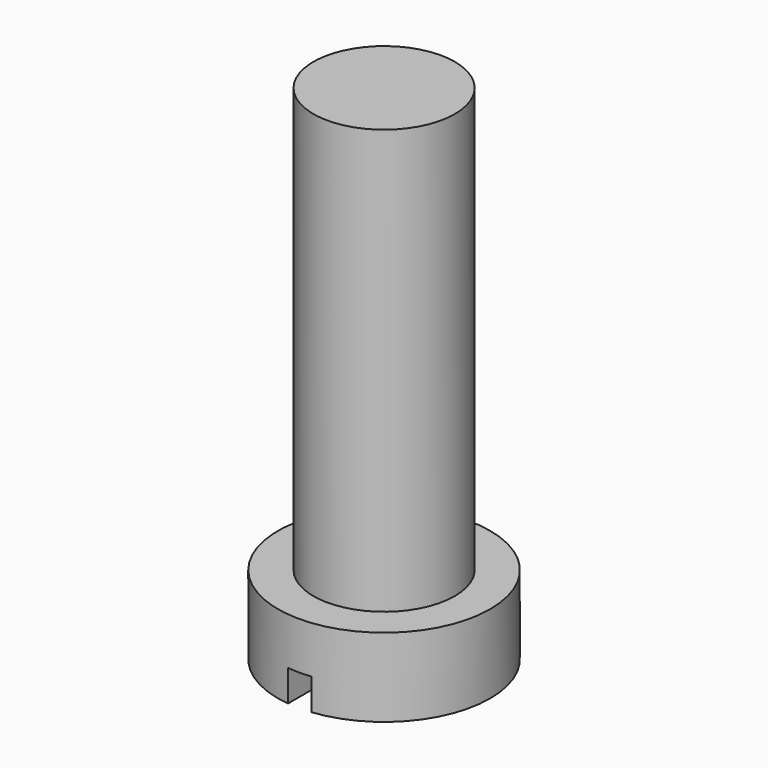
from build123d import *

# Parameters (mm, degrees)
F0_R     = 114.3
F1_DEPTH = 685.8
F2_R     = 171.45
F2_R_2   = 114.3
F3_DEPTH = 127
F4_W     = 38.1
F4_H     = 50.8
F5_DEPTH = 226.06


with BuildPart() as f1:
    # F0 (on Top) → F1 (new body)
    with BuildSketch(Plane.XY):
        Circle(F0_R)
    extrude(amount=F1_DEPTH)


with BuildPart() as f3:
    # F2 (on face) → F3 (new body)
    with BuildSketch(Plane(origin=(0, 0, 0), x_dir=(1, 0, 0), z_dir=(0, 0, -1))):
        Circle(F2_R)
        Circle(F2_R_2, mode=Mode.SUBTRACT)
    extrude(amount=F3_DEPTH)

    # F4 (on Front) → F5 (cut, symmetric)
    with BuildSketch(Plane.XZ):
        with Locations((0, -101.6)):
            Rectangle(F4_W, F4_H)
    extrude(amount=F5_DEPTH, both=True, mode=Mode.SUBTRACT)


solid = Compound([f1.part, f3.part])
